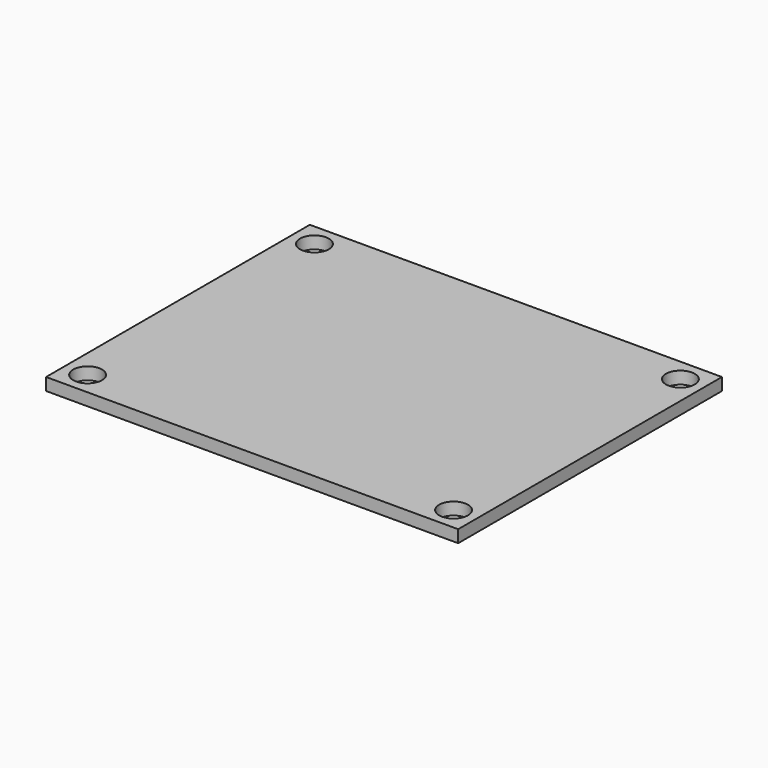
from build123d import *

# Parameters (mm, degrees)
F2_W     = 50
F2_H     = 40
F3_DEPTH = 1.5
F4_D     = 3.5


with BuildPart() as f3:
    # F2 (on Top) → F3 (new body)
    with BuildSketch(Plane.XY):
        Rectangle(F2_W, F2_H)
    extrude(amount=F3_DEPTH)

    # F4 (through all)
    with Locations(Plane(origin=(0, 0, 0), x_dir=(1, 0, 0), z_dir=(0, 0, -1))):
        with Locations((-22.2, 17.2), (-22.2, -17.2), (22.2, 17.2), (22.2, -17.2)):
            Hole(F4_D / 2)


solid = f3.part
